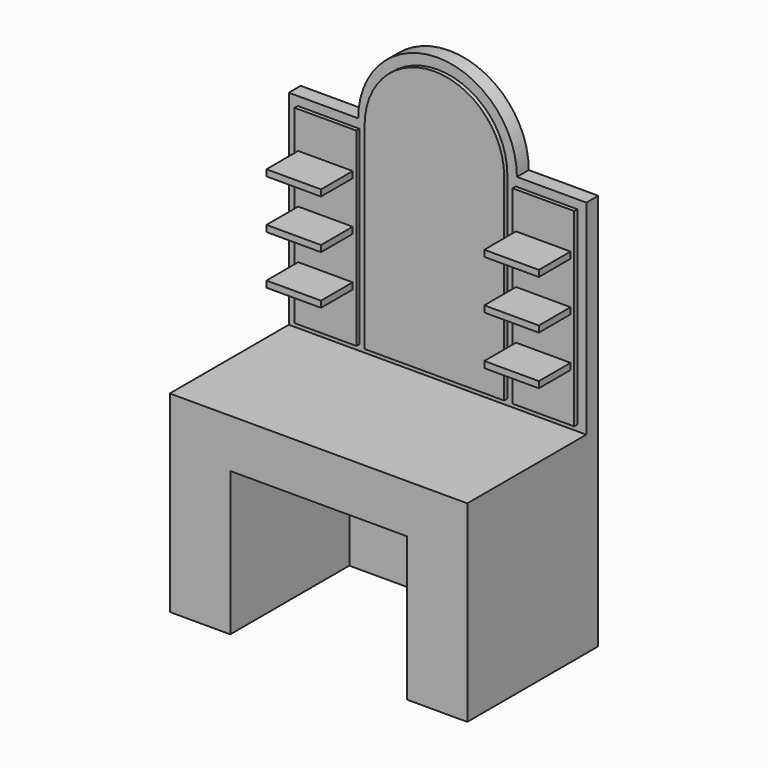
from build123d import *

# Parameters (mm, degrees)
PAD_DEPTH     = 75
SKETCH001_W   = 311.518585
SKETCH001_H   = 955.725281
PAD001_DEPTH  = 20
SKETCH002_W   = 275
SKETCH002_H   = 31.865801
PAD002_DEPTH  = 200
SKETCH003_W   = 1500
SKETCH003_H   = 970
PAD003_DEPTH  = 750
SKETCH004_W   = 890
SKETCH004_H   = 725
POCKET_DEPTH  = 750
SKETCH005_W   = 305
SKETCH005_H   = 245
SKETCH005_H_2 = 180
PAD004_DEPTH  = 25
SKETCH006_W   = 305
SKETCH006_H   = 185
SKETCH006_H_2 = 180
SKETCH006_W_2 = 890
SKETCH006_H_3 = 245
PAD005_DEPTH  = 25


with BuildPart() as part:
    # Sketch → Pad (new body)
    with BuildSketch(Plane.XZ):
        with BuildLine():
            Line((-750, -1000), (750, -1000))
            Line((750, -1000), (750, 1000))
            Line((750, 1000), (400, 1000))
            ThreePointArc((400, 1000), (0, 1400), (-400, 1000))
            Line((-400, 1000), (-750, 1000))
            Line((-750, 1000), (-750, -1000))
        make_face()
    extrude(amount=PAD_DEPTH)

    # Sketch001 (on Face8 of Pad) → Pad001 (join)
    with BuildSketch(Plane.XZ.offset(75)):
        with BuildLine():
            ThreePointArc((351.618271, 995.137056), (0, 1346.755326), (-351.618271, 995.137056))
            Line((-351.618271, 995.137056), (-351.618271, 0))
            Line((-351.618271, 0), (351.618271, 0))
            Line((351.618271, 995.137056), (351.618271, 0))
        make_face()
        with Locations((549.091598, 477.86264)):
            Rectangle(SKETCH001_W, SKETCH001_H)
        with Locations((-549.091598, 477.86264)):
            Rectangle(SKETCH001_W, SKETCH001_H)
    extrude(amount=PAD001_DEPTH)

    # Sketch002 (on Face21 of Pad001) → Pad002 (join)
    with BuildSketch(Plane.XZ.offset(95)):
        with Locations((-549.091599, 754.287087)):
            Rectangle(SKETCH002_W, SKETCH002_H)
        with Locations((-549.091599, 507.368162)):
            Rectangle(SKETCH002_W, SKETCH002_H)
        with Locations((-549.091599, 260.449237)):
            Rectangle(SKETCH002_W, SKETCH002_H)
        with Locations((549.091599, 754.287087)):
            Rectangle(SKETCH002_W, SKETCH002_H)
        with Locations((549.091599, 507.368162)):
            Rectangle(SKETCH002_W, SKETCH002_H)
        with Locations((549.091599, 260.449237)):
            Rectangle(SKETCH002_W, SKETCH002_H)
    extrude(amount=PAD002_DEPTH)

    # Sketch003 (on Face5 of Pad002) → Pad003 (join)
    with BuildSketch(Plane.XZ.offset(75)):
        with Locations((0, -515)):
            Rectangle(SKETCH003_W, SKETCH003_H)
    extrude(amount=PAD003_DEPTH)

    # Sketch004 (on Face12 of Pad003) → Pocket (cut)
    with BuildSketch(Plane.XZ.offset(825)):
        with Locations((0, -637.5)):
            Rectangle(SKETCH004_W, SKETCH004_H)
    extrude(amount=-POCKET_DEPTH, mode=Mode.SUBTRACT)

    # Sketch005 (on Face15 of Pocket) → Pad004 (join)
    with BuildSketch(Plane.XZ.offset(825)):
        with Locations((-597.5, -152.5)):
            Rectangle(SKETCH005_W, SKETCH005_H)
        with Locations((-597.5, -550)):
            Rectangle(SKETCH005_W, SKETCH005_H_2)
        with Locations((-597.5, -910)):
            Rectangle(SKETCH005_W, SKETCH005_H_2)
        with Locations((597.5, -152.5)):
            Rectangle(SKETCH005_W, SKETCH005_H)
        with Locations((597.5, -550)):
            Rectangle(SKETCH005_W, SKETCH005_H_2)
        with Locations((597.5, -910)):
            Rectangle(SKETCH005_W, SKETCH005_H_2)
    extrude(amount=-PAD004_DEPTH)

    # Sketch006 (on Face35 of Pad004) → Pad005 (join)
    with BuildSketch(Plane.XZ.offset(825)):
        with Locations((-597.5, -367.5)):
            Rectangle(SKETCH006_W, SKETCH006_H)
        with Locations((-597.5, -730)):
            Rectangle(SKETCH006_W, SKETCH006_H_2)
        with Locations((597.5, -367.5)):
            Rectangle(SKETCH006_W, SKETCH006_H)
        with Locations((597.5, -730)):
            Rectangle(SKETCH006_W, SKETCH006_H_2)
        with Locations((0, -152.5)):
            Rectangle(SKETCH006_W_2, SKETCH006_H_3)
    extrude(amount=-PAD005_DEPTH)


with BuildPart() as part_1:
    # Body placement: moved
    add(part.part.moved(Location((0, 412.5, 0))))


solid = part_1.part
